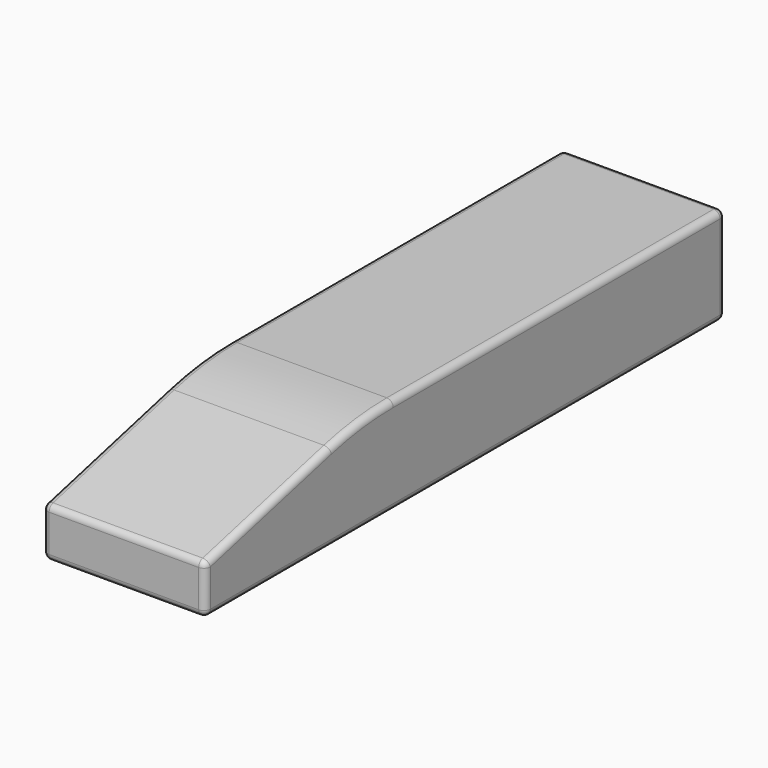
from build123d import *

# Parameters (mm, degrees)
F0_W     = 50
F0_H     = 200
F1_DEPTH = 30
F2_SIZE2 = 15
F2_SIZE  = 60
F3_R     = 100
F4_R     = 2


with BuildPart() as f1:
    # F0 (on Top) → F1 (new body)
    with BuildSketch(Plane.XY):
        with Locations((25, 100)):
            Rectangle(F0_W, F0_H)
    extrude(amount=F1_DEPTH)

    # F2
    f2_edges = [f1.edges().sort_by_distance(p)[0] for p in [
        (25, 0, 30),
    ]]
    f2_side = f1.faces().sort_by_distance((25, 100, 30))[0]
    chamfer(f2_edges, length=F2_SIZE, length2=F2_SIZE2, reference=f2_side)

    # F3
    f3_edges = [f1.edges().sort_by_distance(p)[0] for p in [
        (25, 60, 30),
    ]]
    fillet(f3_edges, radius=F3_R)

    # F4
    f4_edges = [f1.edges().sort_by_distance(p)[0] for p in [
        (0, 0, 7.5),
        (25, 0, 15),
        (25, 0, 0),
        (50, 0, 7.5),
        (50, 24.0285, 21.007125),
        (50, 60.092236, 29.250756),
        (50, 136.155281, 30),
        (50, 100, 0),
        (50, 200, 15),
        (0, 24.0285, 21.007125),
        (25, 48.057, 27.01425),
        (0, 136.155281, 30),
        (0, 60.092236, 29.250756),
        (0, 200, 15),
        (25, 200, 0),
        (25, 200, 30),
        (0, 100, 0),
        (25, 72.310563, 30),
    ]]
    fillet(f4_edges, radius=F4_R)


solid = f1.part
